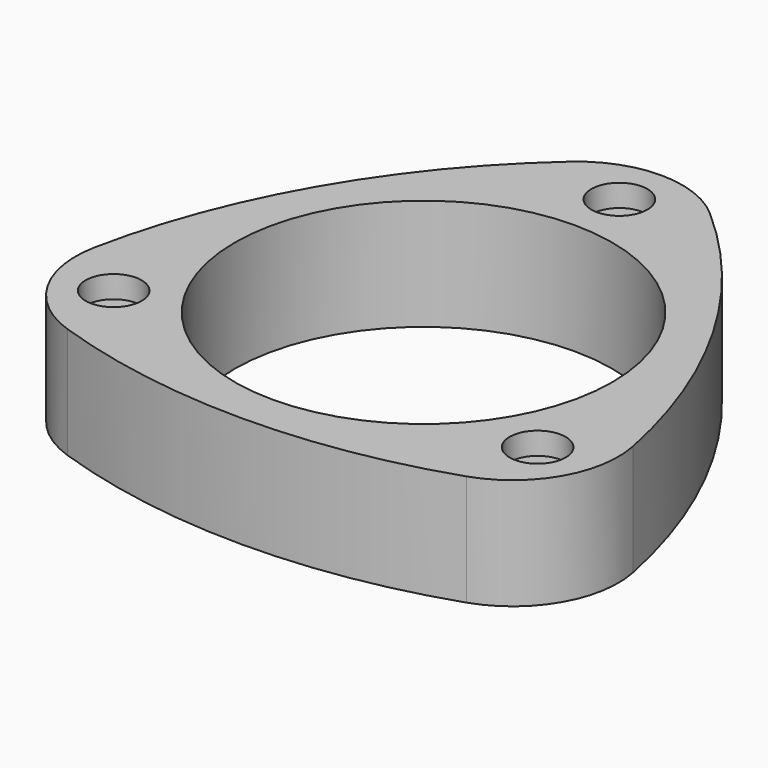
from build123d import *

# Parameters (mm, degrees)
F0_R     = 4.2545
F0_R_2   = 53.975
F1_DEPTH = 31.75
F2_R     = 8.001
F3_DEPTH = 6.35


with BuildPart() as f1:
    # F0 (on Top) → F1 (new body)
    with BuildSketch(Plane.XY):
        with BuildLine():
            ThreePointArc((76.950809, -21.426319), (56.555336, 32.655163), (19.918029, 77.359634))
            ThreePointArc((19.918029, 77.359634), (0, 84.87156), (-19.918029, 77.359634))
            ThreePointArc((-19.918029, 77.359634), (-56.557851, 32.650807), (-76.952784, -21.436182))
            ThreePointArc((-76.952784, -21.436182), (-73.497682, -42.4414), (-57.032117, -55.933698))
            ThreePointArc((-57.032117, -55.933698), (0.002461, -65.305939), (57.035418, -55.923835))
            ThreePointArc((57.035418, -55.923835), (73.497771, -42.430211), (76.950809, -21.426319))
        make_face()
        with Locations((-60.574989, -34.979162)):
            Circle(F0_R, mode=Mode.SUBTRACT)
        with Locations((60.583011, -34.97453)):
            Circle(F0_R, mode=Mode.SUBTRACT)
        Circle(F0_R_2, mode=Mode.SUBTRACT)
        with Locations((0, 69.94906)):
            Circle(F0_R, mode=Mode.SUBTRACT)
        with BuildLine():
            ThreePointArc((76.950809, -21.426319), (56.555336, 32.655163), (19.918029, 77.359634))
            ThreePointArc((19.918029, 77.359634), (0, 84.87156), (-19.918029, 77.359634))
            ThreePointArc((-19.918029, 77.359634), (-56.557851, 32.650807), (-76.952784, -21.436182))
            ThreePointArc((-76.952784, -21.436182), (-73.497682, -42.4414), (-57.032117, -55.933698))
            ThreePointArc((-57.032117, -55.933698), (0.002461, -65.305939), (57.035418, -55.923835))
            ThreePointArc((57.035418, -55.923835), (73.497771, -42.430211), (76.950809, -21.426319))
        make_face()
        with Locations((-60.574989, -34.979162)):
            Circle(F0_R, mode=Mode.SUBTRACT)
        with Locations((60.583011, -34.97453)):
            Circle(F0_R, mode=Mode.SUBTRACT)
        Circle(F0_R_2, mode=Mode.SUBTRACT)
        with Locations((0, 69.94906)):
            Circle(F0_R, mode=Mode.SUBTRACT)
    extrude(amount=F1_DEPTH)

    # F2 (on face) → F3 (cut)
    with BuildSketch(Plane.XY.offset(31.75)):
        with Locations((0, 69.94906)):
            Circle(F2_R)
        with Locations((-60.574989, -34.979162)):
            Circle(F2_R)
        with Locations((60.583011, -34.97453)):
            Circle(F2_R)
    extrude(amount=-F3_DEPTH, mode=Mode.SUBTRACT)


solid = f1.part
